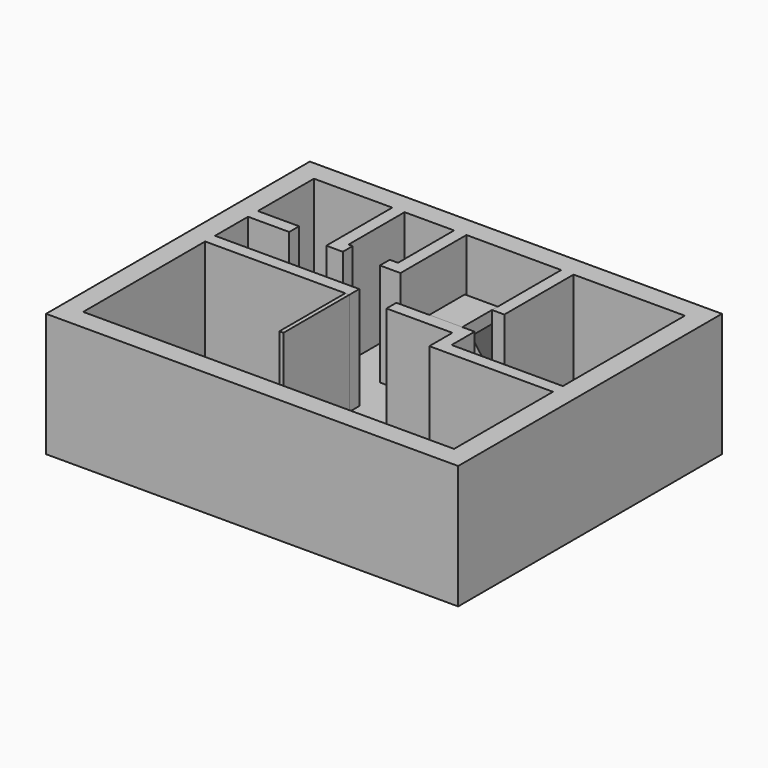
from build123d import *

# Parameters (mm, degrees)
F0_W      = 10000
F0_H      = 8000
F1_DEPTH  = 3000
F2_T      = -500
F3_W      = 3500
F3_H      = 300
F3_W_2    = 300
F3_H_2    = 2100
F3_W_3    = 1000
F4_DEPTH  = 2500
F5_W      = 100
F5_H      = 2000
F6_DEPTH  = 2500
F8_DEPTH  = 800
F10_DEPTH = 800


with BuildPart() as f1:
    # F0 (on Top) → F1 (new body)
    with BuildSketch(Plane.XY):
        with Locations((-5000, -4000)):
            Rectangle(F0_W, F0_H)
    extrude(amount=F1_DEPTH)

    # F2
    f2_openings = [f1.faces().sort_by_distance(p)[0] for p in [
        (-5000, -4000, 3000),
    ]]
    offset(amount=F2_T, openings=f2_openings)

    # F3 (on face) → F4 (join, through all)
    with BuildSketch(Plane.XY.offset(500)):
        with Locations((-7750, -3650)):
            Rectangle(F3_W, F3_H)
        Polygon((-3500, -4500), (-500, -4500), (-500, -4200), (-3200, -4200), (-3200, -3500), (-5100, -3500), (-5100, -3800), (-3500, -3800), align=None)
        with Locations((-3350, -1550)):
            Rectangle(F3_W_2, F3_H_2)
        Polygon((-7300, -500), (-7600, -500), (-7600, -2500), (-7200, -2500), (-7200, -2200), (-7300, -2200), align=None)
        with Locations((-9000, -2350)):
            Rectangle(F3_W_3, F3_H)
        Polygon((-5800, -500), (-6100, -500), (-6100, -2200), (-6300, -2200), (-6300, -2500), (-5800, -2500), align=None)
    extrude(amount=F4_DEPTH)


with BuildPart() as f6:
    # F5 (on face) → F6 (new body, through all)
    with BuildSketch(Plane.XY.offset(500)):
        with Locations((-6050, -4800)):
            Rectangle(F5_W, F5_H)
    extrude(amount=F6_DEPTH)


with BuildPart() as f8:
    # F7 (on face) → F8 (new body)
    with BuildSketch(Plane(origin=(-3500, 0, 0), x_dir=(0, -1, 0), z_dir=(-1, 0, 0))):
        Polygon((500, 1000), (500, 500), (1363.0410452241, 500), (2600, 2700), (3500, 2700), (3500, 3000), (2424.5081407053, 3000), (1300, 1000), align=None)
    extrude(amount=F8_DEPTH)

    # F9 (on face) → F10 (join)
    with BuildSketch(Plane.XZ.offset(500)):
        Polygon((-4300, 500), (-4300, 1000), (-4700, 700), (-4700, 500), align=None)
    extrude(amount=F10_DEPTH)


solid = Compound([f1.part, f6.part, f8.part])
